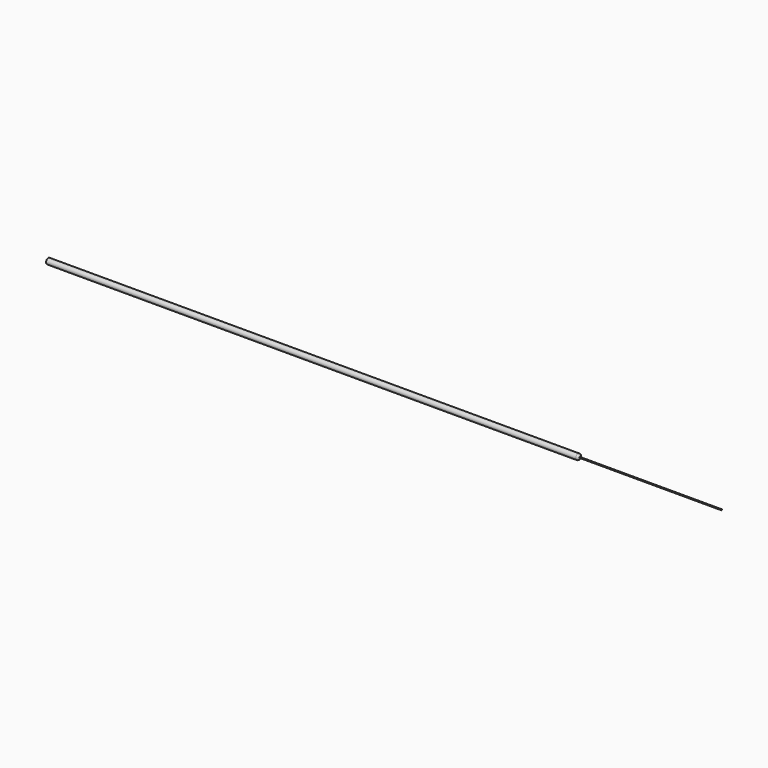
from build123d import *

# Parameters (mm, degrees)
F0_R     = 0.127
F1_DEPTH = 20
F2_R     = 0.7874
F2_R_2   = 0.127
F3_DEPTH = 150
F4_R     = 0.508


with BuildPart() as f1:
    # F0 (on Right) → F1 (new body, symmetric)
    with BuildSketch(Plane.YZ):
        Circle(F0_R)
    extrude(amount=F1_DEPTH, both=True)


with BuildPart() as f3:
    # F2 (on face) → F3 (new body)
    with BuildSketch(Plane(origin=(-20, 0, 0), x_dir=(0, -1, 0), z_dir=(-1, 0, 0))):
        Circle(F2_R)
        Circle(F2_R_2, mode=Mode.SUBTRACT)
    extrude(amount=F3_DEPTH)

    # F4
    f4_edges = [f3.edges().sort_by_distance(p)[0] for p in [
        (-20, 0.7874, 0),
    ]]
    fillet(f4_edges, radius=F4_R)


solid = Compound([f1.part, f3.part])
